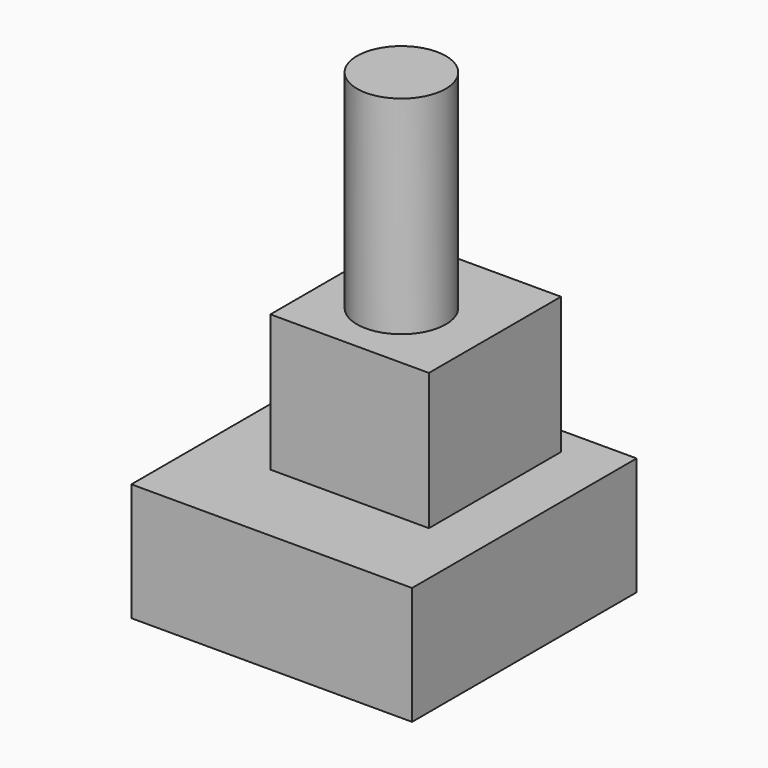
from build123d import *

# Parameters (mm, degrees)
F0_W     = 100
F0_H     = 100
F1_DEPTH = 42
F2_W     = 56.480739
F2_H     = 58.809845
F3_DEPTH = 48.7
F4_R     = 15.824567
F5_DEPTH = 73.9
F6_DEPTH = 25


with BuildPart() as f1:
    # F0 (on Top) → F1 (new body)
    with BuildSketch(Plane.XY):
        with Locations((-0.727845, -2.89979)):
            Rectangle(F0_W, F0_H)
    extrude(amount=F1_DEPTH)

    # F2 (on face) → F3 (join)
    with BuildSketch(Plane.XY.offset(42)):
        with Locations((2.183533, 7.569583)):
            Rectangle(F2_W, F2_H)
    extrude(amount=F3_DEPTH)

    # F4 (on face) → F5 (join)
    with BuildSketch(Plane.XY.offset(90.7)):
        with Locations((0, 3.947993)):
            Circle(F4_R)
    extrude(amount=F5_DEPTH)

    # F0 (on Top) → F6 (join)
    with BuildSketch(Plane.XY):
        with Locations((-0.727845, -2.89979)):
            Rectangle(F0_W, F0_H)
    extrude(amount=F6_DEPTH)


solid = f1.part
